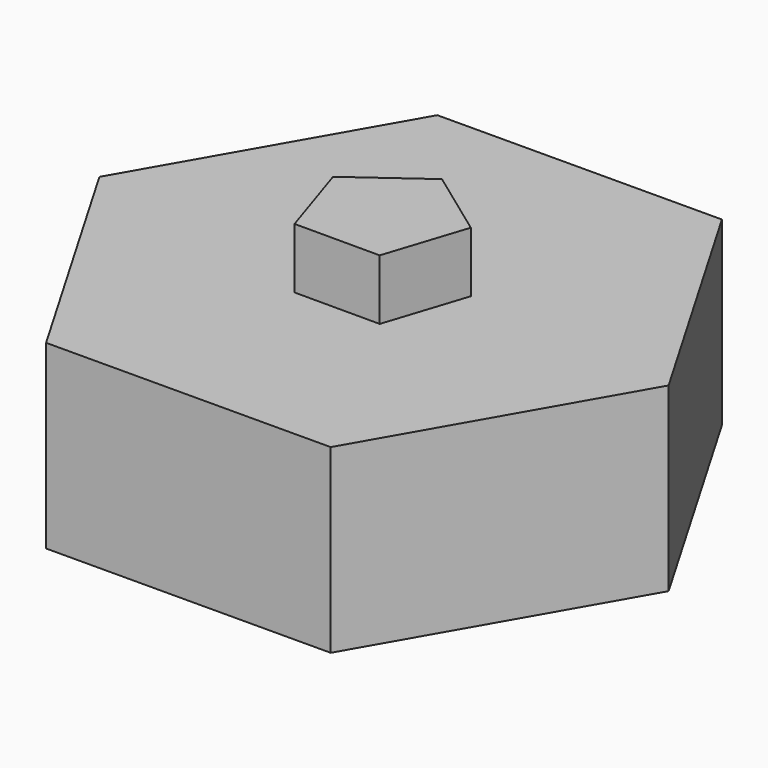
from build123d import *

# Parameters (mm, degrees)
F1_DEPTH = 15
F3_DEPTH = 5
F5_DEPTH = 5


with BuildPart() as f1:
    # F0 (on Top) → F1 (new body)
    with BuildSketch(Plane.XY):
        Polygon((-11.82836, 20.306155), (-23.499825, -0.090583), (-11.671466, -20.396737), (11.82836, -20.306155), (23.499825, 0.090583), (11.671466, 20.396737), align=None)
    extrude(amount=F1_DEPTH)

    # F2 (on face) → F3 (join, symmetric)
    with BuildSketch(Plane.XY.offset(15)):
        Polygon((-3.526712, -4.854102), (3.526712, -4.854102), (5.706339, 1.854102), (0, 6), (-5.706339, 1.854102), align=None)
    extrude(amount=F3_DEPTH, both=True)

    # F4 (on face) → F5 (cut)
    with BuildSketch(Plane(origin=(0, 0, 0), x_dir=(1, 0, 0), z_dir=(0, 0, -1))):
        Polygon((-5.01109, -2.867457), (4.988836, -2.906003), (0.022254, 5.77346), align=None)
    extrude(amount=-F5_DEPTH, mode=Mode.SUBTRACT)


solid = f1.part
